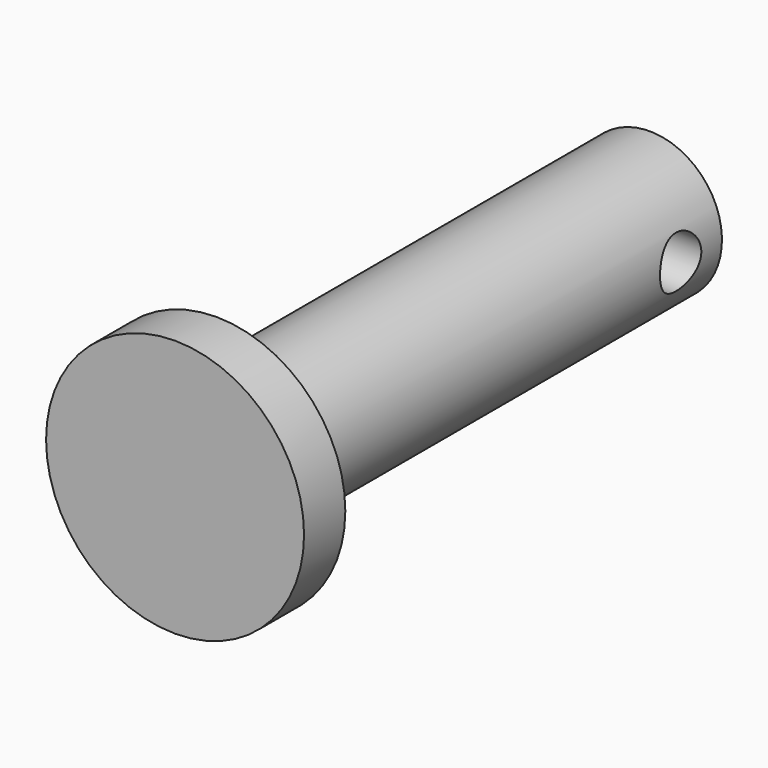
from build123d import *

# Parameters (mm, degrees)
SKETCH027_R                   = 1
PAD027_DEPTH                  = 10
CYLINDER038_R                 = 2.8
CYLINDER038_DEPTH             = 21
CYLINDER039_R                 = 5
CYLINDER039_DEPTH             = 2
CUT021_ROLL_ANGLE             = 90
PART_MIRRORING001_PITCH_ANGLE = 90


with BuildPart() as pad027:
    # Sketch027 → Pad027 (new body)
    with BuildSketch(Plane(origin=(0, 4.2, 21), x_dir=(1, 0, 0), z_dir=(0, -1, 0))):
        Circle(SKETCH027_R)
    extrude(amount=PAD027_DEPTH)


with BuildPart() as eje002:
    # Cylinder038 → Cylinder038 (new body)
    with BuildSketch(Plane.XY.offset(2)):
        Circle(CYLINDER038_R)
    extrude(amount=CYLINDER038_DEPTH)


with BuildPart() as eje_full002:
    # Cylinder039 → Cylinder039 (new body)
    with BuildSketch(Plane.XY):
        Circle(CYLINDER039_R)
    extrude(amount=CYLINDER039_DEPTH)

    # Fusion009003031: union Eje002
    add(eje002.part)

    # Cut021: cut Pad027
    add(pad027.part, mode=Mode.SUBTRACT)


with BuildPart() as eje_full002_1:
    # Cut021 roll: moved
    add(eje_full002.part.rotate(Axis((0, 0, 0), (1, 0, 0)), CUT021_ROLL_ANGLE))


with BuildPart() as eje_full002_2:
    # Cut021 placement: moved
    add(eje_full002_1.part.moved(Location((185, 17, 8.5))))


with BuildPart() as part_mirroring001:
    # Part__Mirroring001: instance of Eje_full002
    add(eje_full002_2.part.mirror(Plane(origin=(0, 0, 0), x_dir=(1, 0, 0), z_dir=(0, 1, 0))))


with BuildPart() as part_mirroring001_1:
    # Part__Mirroring001 pitch: moved
    add(part_mirroring001.part.rotate(Axis((0, 0, 0), (0, 1, 0)), PART_MIRRORING001_PITCH_ANGLE))


with BuildPart() as part_mirroring001_2:
    # Part__Mirroring001 placement: moved
    add(part_mirroring001_1.part.moved(Location((359, -63, 326))))


solid = part_mirroring001_2.part
